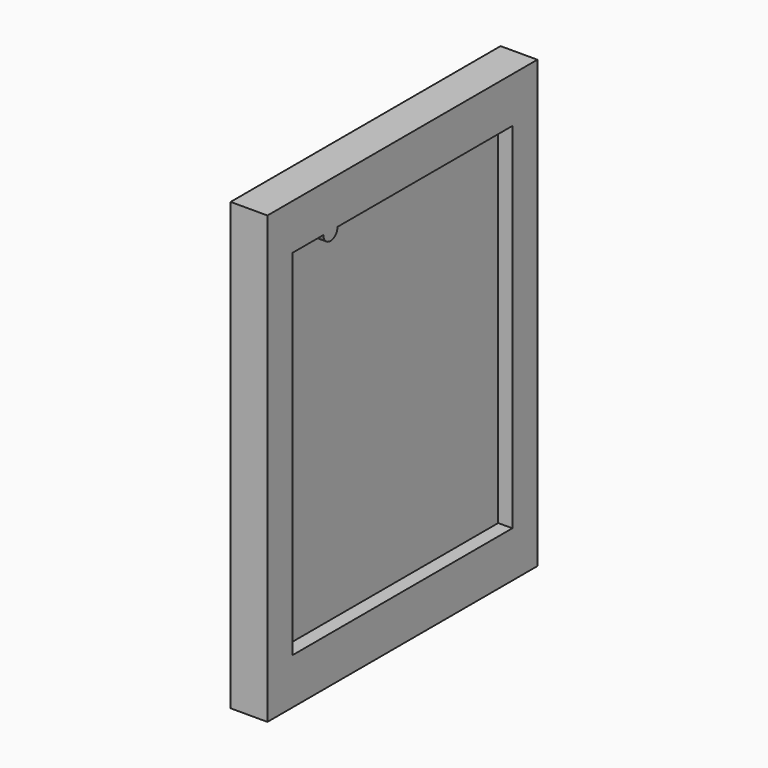
from build123d import *

# Parameters (mm, degrees)
F0_W     = 121.031
F0_H     = 159.9184
F1_DEPTH = 13.208
F3_DEPTH = 5.08


with BuildPart() as f1:
    # F0 (on Right) → F1 (new body)
    with BuildSketch(Plane.YZ):
        with Locations((12.320499, 35.700468)):
            Rectangle(F0_W, F0_H)
    extrude(amount=F1_DEPTH)

    # F2 (on face) → F3 (cut)
    with BuildSketch(Plane.YZ.offset(13.208)):
        with BuildLine():
            Line((61.621899, 99.302068), (-16.778338, 99.302068))
            ThreePointArc((-16.778338, 99.302068), (-19.953338, 96.127068), (-23.128338, 99.302068))
            Line((-23.128338, 99.302068), (-36.980901, 99.302068))
            Line((-36.980901, 99.302068), (-36.980901, -27.748732))
            Line((-36.980901, -27.748732), (61.621899, -27.748732))
            Line((61.621899, -27.748732), (61.621899, 99.302068))
        make_face()
    extrude(amount=-F3_DEPTH, mode=Mode.SUBTRACT)


solid = f1.part
